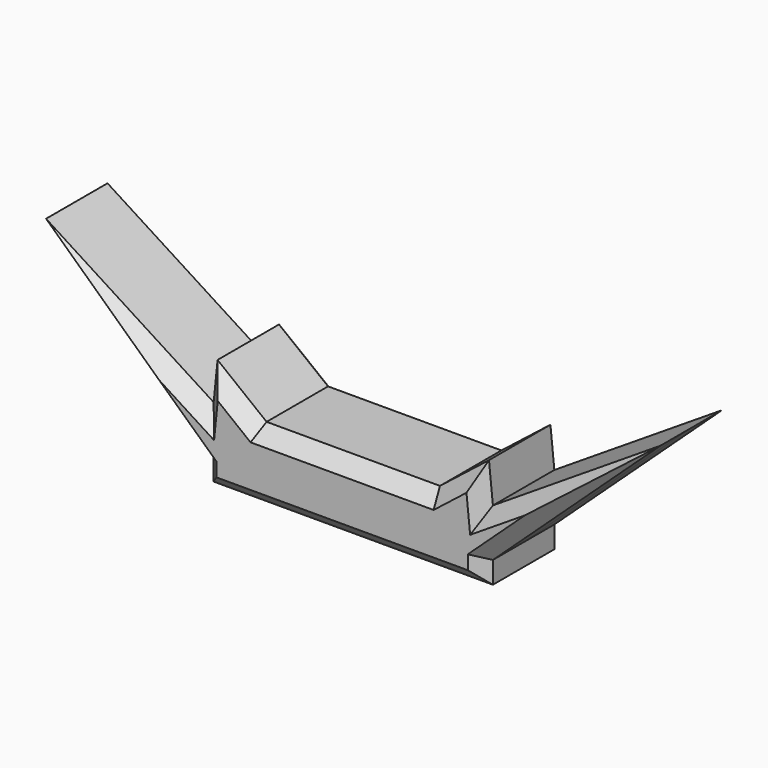
from build123d import *

# Parameters (mm, degrees)
F1_DEPTH = 19.05
F2_DEPTH = 19.05
F3_SIZE  = 5.08


with BuildPart() as f1:
    # F0 (on Front) → F1 (new body)
    with BuildSketch(Plane.XZ):
        Polygon((31.534113, 12.705842), (0, 12.705842), (0, -12.695383), (50.79123, -12.695383), (50.79123, -4.75088), (50.79123, 12.705842), align=None)
        Polygon((49.365442, 26.737807), (31.534113, 12.705842), (50.79123, 12.705842), align=None)
        Polygon((111.746311, 51.668487), (50.79123, 12.705842), (50.79123, -4.75088), align=None)
        Polygon((-50.79123, 12.705842), (-31.534113, 12.705842), (-49.365442, 26.737807), align=None)
        Polygon((-50.79123, -4.75088), (-50.79123, 12.705842), (-111.746311, 51.668487), align=None)
        Polygon((0, -12.695383), (0, 12.705842), (-31.534113, 12.705842), (-50.79123, 12.705842), (-50.79123, -4.75088), (-50.79123, -12.695383), align=None)
    extrude(amount=F1_DEPTH)

    # F1_face (on face) → F2 (join)
    with BuildSketch(Plane(origin=(0, 0, 6.605676), x_dir=(1, 0, 0), z_dir=(0, 1, 0))):
        Polygon((-49.365442, -20.132131), (-31.534113, -6.100166), (31.534113, -6.100166), (49.365442, -20.132131), (50.79123, -6.100166), (111.746311, -45.062811), (50.79123, 11.356557), (50.79123, 19.30106), (-50.79123, 19.30106), (-50.79123, 11.356557), (-111.746311, -45.062811), (-50.79123, -6.100166), align=None)
    extrude(amount=F2_DEPTH)

    # F3
    f3_edges = [f1.edges().sort_by_distance(p)[0] for p in [
        (-40.449778, -19.05, 19.721825),
        (-50.078336, -19.05, 19.721825),
        (-81.268771, -19.05, 32.187165),
        (-81.268771, -19.05, 23.458804),
        (-50.79123, -19.05, -8.723132),
        (0, -19.05, -12.695383),
        (50.79123, -19.05, -8.723132),
        (81.268771, -19.05, 23.458804),
        (81.268771, -19.05, 32.187165),
        (50.078336, -19.05, 19.721825),
        (40.449778, -19.05, 19.721825),
        (0, -19.05, 12.705842),
        (-50.078336, 19.05, 19.721825),
        (-40.449778, 19.05, 19.721825),
        (0, 19.05, 12.705842),
        (40.449778, 19.05, 19.721825),
        (50.078336, 19.05, 19.721825),
        (81.268771, 19.05, 32.187165),
        (81.268771, 19.05, 23.458804),
        (50.79123, 19.05, -8.723132),
        (0, 19.05, -12.695383),
        (-50.79123, 19.05, -8.723132),
        (-81.268771, 19.05, 23.458804),
        (-81.268771, 19.05, 32.187165),
    ]]
    chamfer(f3_edges, length=F3_SIZE)


solid = f1.part
